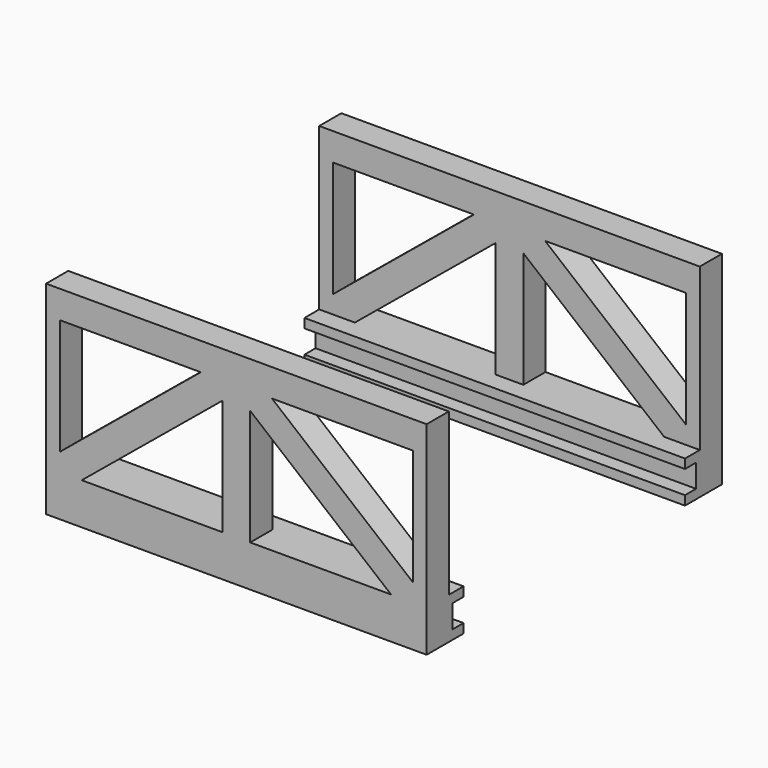
from build123d import *

# Parameters (mm, degrees)
F0_W     = 41.243
F0_H     = 22
F1_DEPTH = 3
F3_DEPTH = 41.243


with BuildPart() as f1:
    # F0 (on Front) → F1 (new body)
    with BuildSketch(Plane.XZ):
        with Locations((20.6215, 11)):
            Rectangle(F0_W, F0_H)
        Polygon((3.8607233419, 4.5), (19.1215, 17.0574588737), (19.1215, 4.5), align=None, mode=Mode.SUBTRACT)
        Polygon((22.1215, 17.0574588737), (37.3822766581, 4.5), (22.1215, 4.5), align=None, mode=Mode.SUBTRACT)
        Polygon((1.5, 6.4425411263), (1.5, 19), (16.7607766581, 19), align=None, mode=Mode.SUBTRACT)
        Polygon((24.4822233419, 19), (39.743, 19), (39.743, 6.4425411263), align=None, mode=Mode.SUBTRACT)
    extrude(amount=F1_DEPTH)

    # F2 (on face) → F3 (join, through all)
    with BuildSketch(Plane.YZ.offset(41.243)):
        Polygon((-5, 0), (-3, 0), (-3, 4.5), (-5, 4.5), (-5, 3.5), (-3.5, 3.5), (-3.5, 1), (-5, 1), align=None)
    extrude(amount=-F3_DEPTH)


with BuildPart() as f5_1:
    # F5: instance of F1
    add(f1.part.mirror(Plane.XZ.offset(20)))


solid = Compound([f1.part, f5_1.part])
